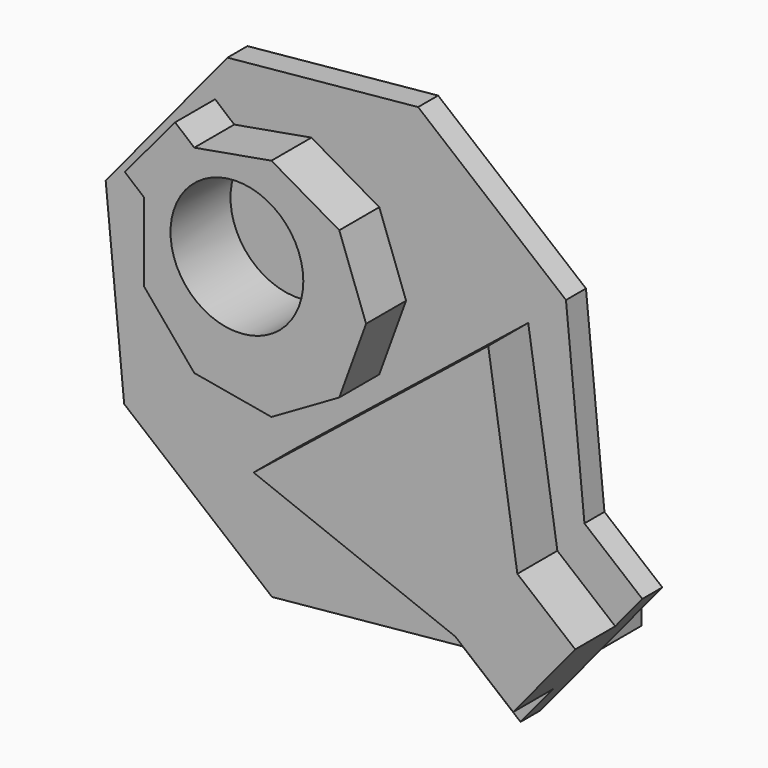
from build123d import *

# Parameters (mm, degrees)
F0_W      = 42.0805886388
F0_H      = 55.5550716817
F1_DEPTH  = 25.4
F2_R      = 67.4858140494
F3_DEPTH  = 25.4
F5_DEPTH  = 25.4
F6_R      = 67.4858140494
F7_DEPTH  = 25.4
F9_DEPTH  = 25.4
F10_R     = 67.4858140494
F11_DEPTH = 25.4
F12_DEPTH = 25.4
F13_DEPTH = 25.4
F14_DEPTH = 25.4
F15_DEPTH = 25.4
F16_DEPTH = 25.4
F17_W     = 12.6644528484
F17_H     = 17.322853056
F18_DEPTH = 25.4
F19_DEPTH = 25.4
F20_DEPTH = 25.4
F22_DEPTH = 25.4


with BuildPart() as f1:
    # F0 (on Front) → F1 (new body)
    with BuildSketch(Plane.XZ):
        with Locations((21.0402943194, 27.7775358409)):
            Rectangle(F0_W, F0_H)
    extrude(amount=F1_DEPTH)

    # F2 (on face) → F3 (join)
    with BuildSketch(Plane.XZ.offset(25.4)):
        with Locations((14.285591431, 17.3925496638)):
            Circle(F2_R)
    extrude(amount=F3_DEPTH)

    # F4 (on Front) → F5 (join)
    with BuildSketch(Plane.XZ):
        Polygon((-109.1110140085, -25.598902516), (-48.0155766011, -101.2670804933), (49.2365693262, -100.6790813872), (109.4125743078, -24.2776805175), (87.1986792259, 70.4053089563), (-0.677599842, 112.0716647794), (-88.0436324084, 69.3457711783), align=None)
    extrude(amount=F5_DEPTH)


with BuildPart() as f7:
    # F6 (on face) → F7 (new body)
    with BuildSketch(Plane.XZ.offset(50.8)):
        Polygon((157.7814564986, 177.2044847987), (-35.9753862901, 158.4442306974), (-159.7166608355, 8.1719503684), (-140.9564067342, -185.5848924203), (9.3158735947, -309.3261669657), (203.0727163835, -290.5659128645), (326.8139909289, -140.2936325355), (308.0537368276, 53.4632102532), align=None)
        with Locations((14.285591431, 17.3925496638)):
            Circle(F6_R, mode=Mode.SUBTRACT)
    extrude(amount=F7_DEPTH)

    # F8 (on face) → F9 (join)
    with BuildSketch(Plane.XZ.offset(76.2)):
        Polygon((31.2306833812, -170.2270698134), (236.2159565481, -250.3165272384), (299.2832751437, -173.7271287987), (269.6982669285, 20.541463453), align=None)
    extrude(amount=F9_DEPTH)

    # F10 (on face) → F11 (join)
    with BuildSketch(Plane.XZ.offset(76.2)):
        Polygon((-80.231256783, 39.8105914543), (-80.231256783, -39.8105914543), (-29.0517469407, -100.8039561761), (49.3598112917, -114.6300294918), (118.31377837, -74.8194380375), (145.5458267602, 0), (118.31377837, 74.8194380375), (49.3598112917, 114.6300294918), (-29.0517469407, 100.8039561761), align=None)
        with Locations((14.285591431, 17.3925496638)):
            Circle(F10_R, mode=Mode.SUBTRACT)
    extrude(amount=F11_DEPTH)

    # F12 (add): a face of the model
    f12_faces = [f7.faces().sort_by_distance(p)[0] for p in [
        (-54.6415018619, -88.9, 70.3072738152),
    ]]
    extrude(f12_faces, amount=F12_DEPTH)

    # F13 (add): faces of the model
    f13_faces = [f7.faces().sort_by_distance(p)[0] for p in [
        (-76.8570445884, -101.6, 0),
        (196.8860649719, -101.6, -133.5669586083),
    ]]
    extrude(f13_faces, amount=F13_DEPTH)

    # F14 (add): a face of the model
    f14_faces = [f7.faces().sort_by_distance(p)[0] for p in [
        (266.359924228, -82.7324648006, -213.7094793633),
    ]]
    extrude(f14_faces, amount=F14_DEPTH)

    # F15 (add): a face of the model
    f15_faces = [f7.faces().sort_by_distance(p)[0] for p in [
        (285.967744121, -82.7324648006, -229.8554819349),
    ]]
    extrude(f15_faces, amount=F15_DEPTH)

    # F16 (add): a face of the model
    f16_faces = [f7.faces().sort_by_distance(p)[0] for p in [
        (305.5755640141, -82.7324648006, -246.0014845064),
    ]]
    extrude(f16_faces, amount=F16_DEPTH)

    # F17 (on face) → F18 (join)
    with BuildSketch(Plane(origin=(0, -50.8, 0), x_dir=(-1, 0, 0), z_dir=(0, 1, 0))):
        with Locations((-317.4345869112, -255.2063538866)):
            Rectangle(F17_W, F17_H)
    extrude(amount=F18_DEPTH)

    # F19 (add): a face of the model
    f19_faces = [f7.faces().sort_by_distance(p)[0] for p in [
        (317.4345869112, -25.4, -255.2063538866),
    ]]
    extrude(f19_faces, amount=F19_DEPTH)

    # F20 (add): a face of the model
    f20_faces = [f7.faces().sort_by_distance(p)[0] for p in [
        (317.4345869112, 0, -255.2063538866),
    ]]
    extrude(f20_faces, amount=-F20_DEPTH)


with BuildPart() as f22:
    # F21 (on face) → F22 (new body)
    with BuildSketch(Plane(origin=(0, 0, 0), x_dir=(-1, 0, 0), z_dir=(0, 1, 0))):
        Polygon((-55.8760432432, -92.2493907081), (-96.5675093433, -40.586190161), (-90.7332182541, -85.7058153757), align=None)
    extrude(amount=F22_DEPTH)


solid = Compound([f1.part, f7.part, f22.part])
